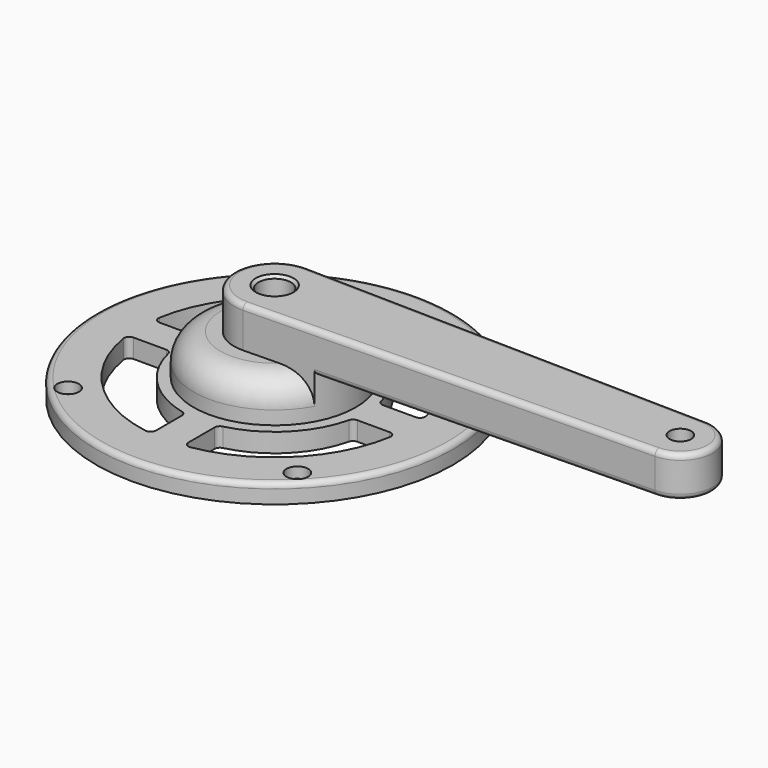
from build123d import *

# Parameters (mm, degrees)
SKETCH_R              = 66
PAD_DEPTH             = 7
SKETCH001_R           = 30
PAD001_DEPTH          = 15
PAD002_DEPTH          = 15
POCKET_DEPTH          = 7
POLARPATTERN_COUNT    = 4
FILLET_R              = 10
FILLET001_R           = 2
SKETCH004_R           = 6
POCKET001_DEPTH       = 37.001
SKETCH005_R           = 23
POCKET002_DEPTH       = 10
SKETCH006_R           = 4
POCKET003_DEPTH       = 4
POLARPATTERN001_COUNT = 4
SKETCH007_R           = 2.25
POCKET004_DEPTH       = 535.079942
POLARPATTERN002_COUNT = 4
CHAMFER_SIZE          = 1
SKETCH008_R           = 4
POCKET005_DEPTH       = 37.001


with BuildPart() as part:
    # Sketch → Pad (new body)
    with BuildSketch(Plane.XY):
        Circle(SKETCH_R)
    extrude(amount=PAD_DEPTH)

    # Sketch001 (on Face3 of Pad) → Pad001 (join)
    with BuildSketch(Plane.XY.offset(7)):
        Circle(SKETCH001_R)
    extrude(amount=PAD001_DEPTH)

    # Sketch002 (on Face5 of Pad001) → Pad002 (join)
    with BuildSketch(Plane.XY.offset(22)):
        with BuildLine():
            ThreePointArc((0.3, 14.997), (-15, 0), (0.3, -14.997))
            Line((0.3, -14.997), (150.24, -11.9976))
            ThreePointArc((150.24, -11.9976), (162, 0), (150.24, 11.9976))
            Line((0.3, 14.997), (150.24, 11.9976))
        make_face()
    extrude(amount=PAD002_DEPTH)

    # Sketch003 (on Face3 of Pad002) → Pocket (cut)
    with BuildSketch(Plane.XY.offset(7)):
        with BuildLine():
            ThreePointArc((-6, 49.638695), (-35.355339, 35.355339), (-49.638695, 6))
            Line((-33.76825, 6), (-49.638695, 6))
            ThreePointArc((-6, 33.636641), (-24.113209, 24.067543), (-33.76825, 6))
            Line((-6, 33.636641), (-6, 49.638695))
        make_face()
    pocket = extrude(amount=-POCKET_DEPTH, mode=Mode.SUBTRACT)

    # PolarPattern: Pocket ×4 about axis
    polarpattern_axis = Axis((0, 0, 0), (0, 0, 1))
    for i in range(1, POLARPATTERN_COUNT):
        add(pocket.rotate(polarpattern_axis, i * 360 / POLARPATTERN_COUNT), mode=Mode.SUBTRACT)

    # Fillet
    fillet_edges = [part.edges().sort_by_distance(p)[0] for p in [
        (-30, 0, 22),
    ]]
    fillet(fillet_edges, radius=FILLET_R)

    # Fillet001
    fillet001_edges = [part.edges().sort_by_distance(p)[0] for p in [
        (-33.636641, -6, 3.5),
        (-49.638695, -6, 3.5),
        (-66, 0, 7),
        (-49.638695, 6, 3.5),
        (-6, 49.638695, 3.5),
        (-6, -33.76825, 3.5),
        (-6, -49.638695, 3.5),
        (6, -49.638695, 3.5),
        (6, -33.636641, 3.5),
        (33.76825, -6, 3.5),
        (49.638695, -6, 3.5),
        (49.638695, 6, 3.5),
        (6, 49.638695, 3.5),
        (6, 33.76825, 3.5),
        (33.636641, 6, 3.5),
        (-6, 33.636641, 3.5),
        (-33.76825, 6, 3.5),
        (75.27, -13.4973, 37),
        (-15, 0, 37),
        (75.27, 13.4973, 37),
        (162, 0, 37),
        (88.257783, 13.237492, 22),
        (162, 0, 22),
        (88.257783, -13.237492, 22),
        (-30, 0, 12),
    ]]
    fillet(fillet001_edges, radius=FILLET001_R)

    # Sketch004 (on Face50 of Fillet001) → Pocket001 (cut, through all)
    with BuildSketch(Plane.XY.offset(37)):
        Circle(SKETCH004_R)
    extrude(amount=-POCKET001_DEPTH, mode=Mode.SUBTRACT)

    # Sketch005 (on Face51 of Pocket001) → Pocket002 (cut)
    with BuildSketch(Plane(origin=(0, 0, 0), x_dir=(1, 0, 0), z_dir=(0, 0, -1))):
        with Locations((0.306212, -0.34782)):
            Circle(SKETCH005_R)
    extrude(amount=-POCKET002_DEPTH, mode=Mode.SUBTRACT)

    # Sketch006 (on Face5 of Pocket002) → Pocket003 (cut)
    with BuildSketch(Plane.XY.offset(7)):
        with Locations((-42.376377, 42.476376)):
            Circle(SKETCH006_R)
    pocket003 = extrude(amount=-POCKET003_DEPTH, mode=Mode.SUBTRACT)

    # PolarPattern001: Pocket003 ×4 about axis
    polarpattern001_axis = Axis((0, 0, 0), (0, 0, 1))
    for i in range(1, POLARPATTERN001_COUNT):
        add(pocket003.rotate(polarpattern001_axis, i * 360 / POLARPATTERN001_COUNT), mode=Mode.SUBTRACT)

    # Sketch007 (on Face57 of PolarPattern001) → Pocket004 (cut, through all)
    with BuildSketch(Plane.XY.offset(3)):
        with Locations((-42.376377, 42.476376)):
            Circle(SKETCH007_R)
    pocket004 = extrude(amount=-POCKET004_DEPTH, mode=Mode.SUBTRACT)

    # PolarPattern002: Pocket004 ×4 about axis
    polarpattern002_axis = Axis((0, 0, 0), (0, 0, 1))
    for i in range(1, POLARPATTERN002_COUNT):
        add(pocket004.rotate(polarpattern002_axis, i * 360 / POLARPATTERN002_COUNT), mode=Mode.SUBTRACT)

    # Chamfer
    chamfer_edges = [part.edges().sort_by_distance(p)[0] for p in [
        (-6, 0, 37),
    ]]
    chamfer(chamfer_edges, length=CHAMFER_SIZE)

    # Sketch008 (on Face1 of Chamfer) → Pocket005 (cut, through all)
    with BuildSketch(Plane.XY.offset(37)):
        with Locations((150, 0)):
            Circle(SKETCH008_R)
    extrude(amount=-POCKET005_DEPTH, mode=Mode.SUBTRACT)


solid = part.part
